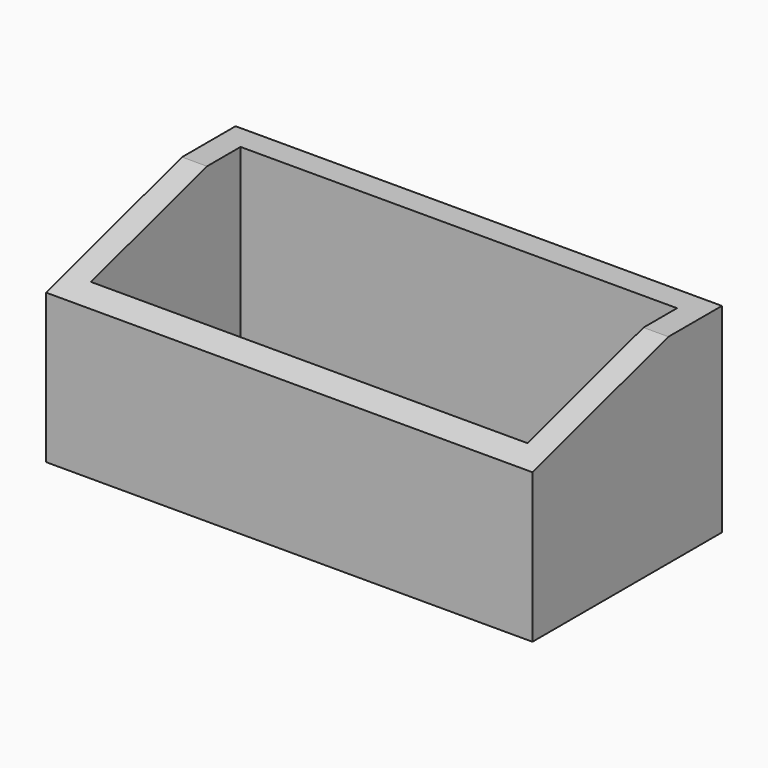
from build123d import *

# Parameters (mm, degrees)
F0_W     = 495.524884
F0_H     = 203.211292
F1_DEPTH = 241.3
F2_T     = -25.4
F4_DEPTH = 495.554


with BuildPart() as f1:
    # F0 (on Front) → F1 (new body)
    with BuildSketch(Plane.XZ):
        Rectangle(F0_W, F0_H)
    extrude(amount=F1_DEPTH)

    # F2
    f2_openings = [f1.faces().sort_by_distance(p)[0] for p in [
        (0, -120.65, 101.605646),
    ]]
    offset(amount=F2_T, openings=f2_openings)

    # F3 (on face) → F4 (cut)
    with BuildSketch(Plane.YZ.offset(247.762442)):
        Polygon((-68.14377, 101.605646), (-241.3, 101.605646), (-241.3, 50.465446), align=None)
    extrude(amount=-F4_DEPTH, mode=Mode.SUBTRACT)


solid = f1.part
